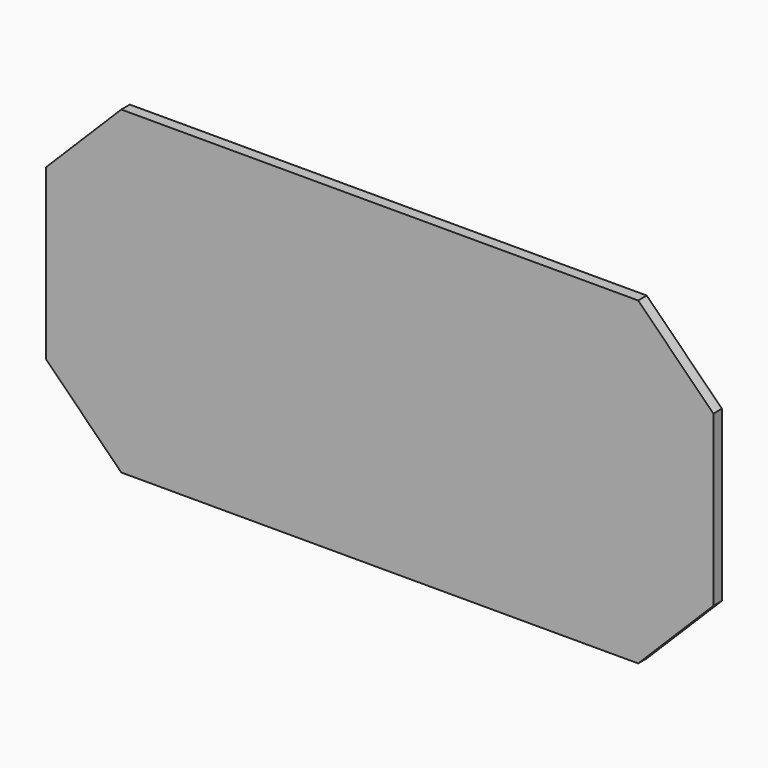
from build123d import *

# Parameters (mm, degrees)
F0_W     = 355
F0_H     = 170
F1_DEPTH = 5.7
F3_DEPTH = 5.7


with BuildPart() as f1:
    # F0 (on Front) → F1 (new body)
    with BuildSketch(Plane.XZ):
        Rectangle(F0_W, F0_H)
    extrude(amount=F1_DEPTH)

    # F2 (on face) → F3 (cut, through all)
    with BuildSketch(Plane.XZ.offset(5.7)):
        Polygon((-177.5, 45), (-137.5, 85), (-177.5, 85), align=None)
        Polygon((177.5, 85), (137.5, 85), (177.5, 45), align=None)
        Polygon((177.5, -85), (177.5, -45), (137.5, -85), align=None)
        Polygon((-177.5, -45), (-177.5, -85), (-137.5, -85), align=None)
    extrude(amount=-F3_DEPTH, mode=Mode.SUBTRACT)


solid = f1.part
